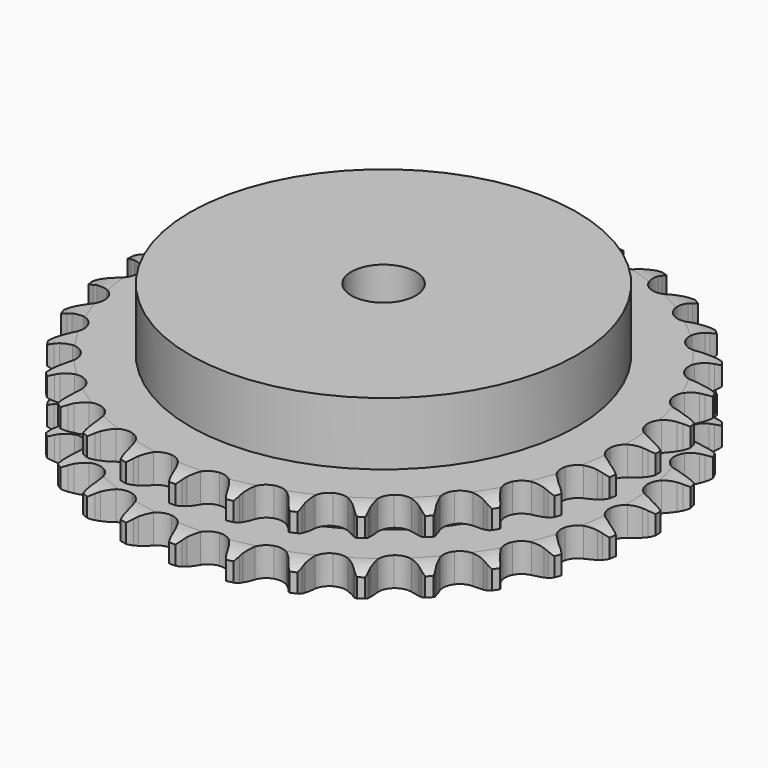
from build123d import *

# Parameters (mm, degrees)
PAD_DEPTH         = 25.5
SKETCH001_R       = 60
PAD001_DEPTH      = 45
SKETCH002_R       = 10
POCKET_DEPTH      = 0.001
POCKET_DEPTH_BACK = 45.001


with BuildPart() as part:
    # Sprocket → Pad (new body)
    with BuildSketch(Plane.XY):
        with BuildLine():
            ThreePointArc((-8.441553, 83.012563), (-7.253766, 81.595871), (-6.410038, 79.950886))
            Line((-6.410038, 79.950886), (-5.914495, 78.642367))
            ThreePointArc((-5.914495, 78.642367), (-5.128769, 76.941144), (-4.111265, 75.367546))
            ThreePointArc((-4.111265, 75.367546), (-2.29761, 73.856552), (0, 73.314854))
            ThreePointArc((0, 73.314854), (2.29761, 73.856552), (4.111265, 75.367546))
            ThreePointArc((4.111265, 75.367546), (5.128769, 76.941144), (5.914495, 78.642367))
            Line((5.914495, 78.642367), (6.410038, 79.950886))
            ThreePointArc((6.410038, 79.950886), (7.253766, 81.595871), (8.441553, 83.012563))
            ThreePointArc((8.441553, 83.012563), (9.319847, 81.385771), (9.815171, 79.604618))
            Line((9.815171, 79.604618), (10.037167, 78.223133))
            ThreePointArc((10.037167, 78.223133), (10.464356, 76.398568), (11.144269, 74.652359))
            ThreePointArc((11.144269, 74.652359), (12.616637, 72.807209), (14.758172, 71.814094))
            ThreePointArc((14.758172, 71.814094), (17.117792, 71.882198), (19.198482, 72.997176))
            Line((19.198482, 72.997176), (21.624017, 75.841974))
            ThreePointArc((21.624017, 75.841974), (21.982831, 76.44284), (22.372819, 77.023955))
            ThreePointArc((22.372819, 77.023955), (23.530409, 78.465426), (24.97906, 79.614019))
            ThreePointArc((24.97906, 79.614019), (25.511905, 77.843728), (25.638545, 75.999327))
            Line((25.638545, 75.999327), (25.577906, 74.601434))
            ThreePointArc((25.577906, 74.601434), (25.629069, 72.728225), (25.943554, 70.880896))
            ThreePointArc((25.943554, 70.880896), (27.014357, 68.777131), (28.912142, 67.373258))
            ThreePointArc((28.912142, 67.373258), (31.23717, 66.964979), (33.499712, 67.638294))
            Line((33.499712, 67.638294), (36.44825, 69.936602))
            ThreePointArc((36.44825, 69.936602), (36.920671, 70.452939), (37.419655, 70.943655))
            ThreePointArc((37.419655, 70.943655), (38.843714, 72.122598), (40.493921, 72.956068))
            ThreePointArc((40.493921, 72.956068), (40.659502, 71.114754), (40.412275, 69.282615))
            Line((40.412275, 69.282615), (40.071483, 67.925543))
            ThreePointArc((40.071483, 67.925543), (39.744524, 66.080381), (39.680708, 64.207561))
            ThreePointArc((39.680708, 64.207561), (40.306106, 61.931309), (41.882446, 60.174152))
            ThreePointArc((41.882446, 60.174152), (44.077695, 59.306206), (46.429459, 59.510291))
            Line((46.429459, 59.510291), (49.780286, 61.168017))
            ThreePointArc((49.780286, 61.168017), (50.346975, 61.578687), (50.934525, 61.958913))
            ThreePointArc((50.934525, 61.958913), (52.566754, 62.827062), (54.350956, 63.311286))
            ThreePointArc((54.350956, 63.311286), (54.142494, 61.474333), (53.531521, 59.729465))
            Line((53.531521, 59.729465), (52.924529, 58.468773))
            ThreePointArc((52.924529, 58.468773), (52.232834, 56.727198), (51.793328, 54.905561))
            ThreePointArc((51.793328, 54.905561), (51.947719, 52.550012), (53.138077, 50.511509))
            ThreePointArc((53.138077, 50.511509), (55.113673, 49.21943), (57.458379, 48.945931))
            Line((57.458379, 48.945931), (61.074312, 49.895206))
            ThreePointArc((61.074312, 49.895206), (61.712068, 50.183396), (62.36413, 50.437566))
            ThreePointArc((62.36413, 50.437566), (64.137704, 50.959379), (65.982857, 51.074533))
            ThreePointArc((65.982857, 51.074533), (65.408886, 49.317146), (64.459181, 47.730983))
            Line((64.459181, 47.730983), (63.610838, 46.618284))
            ThreePointArc((63.610838, 46.618284), (62.582726, 45.051596), (61.785524, 43.35572))
            ThreePointArc((61.785524, 43.35572), (61.462586, 41.017311), (62.21823, 38.780919))
            ThreePointArc((62.21823, 38.780919), (63.893291, 37.117605), (66.134946, 36.377718))
            Line((66.134946, 36.377718), (69.867949, 36.579679))
            ThreePointArc((69.867949, 36.579679), (70.550662, 36.733591), (71.24054, 36.851299))
            ThreePointArc((71.24054, 36.851299), (73.082849, 37.005412), (74.913412, 36.746783))
            ThreePointArc((74.913412, 36.746783), (73.997431, 35.140909), (72.747874, 33.77839))
            Line((72.747874, 33.77839), (71.692912, 32.859238))
            ThreePointArc((71.692912, 32.859238), (70.370474, 31.531577), (69.248213, 30.030892))
            ThreePointArc((69.248213, 30.030892), (68.461167, 27.805357), (68.75116, 25.462634))
            ThreePointArc((68.75116, 25.462634), (70.057111, 23.49618), (72.10394, 22.320197))
            Line((72.10394, 22.320197), (75.801183, 21.766577))
            ThreePointArc((75.801183, 21.766577), (76.500903, 21.779908), (77.200354, 21.756336))
            ThreePointArc((77.200354, 21.756336), (79.035973, 21.53644), (80.777003, 20.914615))
            ThreePointArc((80.777003, 20.914615), (79.556512, 19.525999), (78.05826, 18.442905))
            Line((78.05826, 18.442905), (76.83987, 17.75493))
            ThreePointArc((76.83987, 17.75493), (75.277246, 16.720652), (73.875872, 15.476595))
            ThreePointArc((73.875872, 15.476595), (72.65694, 13.455048), (72.469411, 11.101905))
            ThreePointArc((72.469411, 11.101905), (73.352784, 8.912819), (75.120991, 7.348885))
            Line((75.120991, 7.348885), (78.631108, 6.062348))
            ThreePointArc((78.631108, 6.062348), (79.319189, 5.934554), (79.999576, 5.770665))
            ThreePointArc((79.999576, 5.770665), (81.753356, 5.185764), (83.333575, 4.226201))
            ThreePointArc((83.333575, 4.226201), (81.858541, 3.111693), (80.172933, 2.352365))
            Line((80.172933, 2.352365), (78.840995, 1.923734))
            ThreePointArc((78.840995, 1.923734), (77.102159, 1.225181), (75.479044, 0.288684))
            ThreePointArc((75.479044, 0.288684), (73.878129, -1.446112), (73.220755, -3.713336))
            ThreePointArc((73.220755, -3.713336), (73.645385, -6.035434), (75.06258, -7.923291))
            Line((75.06258, -7.923291), (78.241866, -9.890075))
            ThreePointArc((78.241866, -9.890075), (78.890137, -10.153762), (79.523606, -10.451257))
            ThreePointArc((79.523606, -10.451257), (81.123746, -11.377219), (82.478459, -12.635235))
            ThreePointArc((82.478459, -12.635235), (80.809271, -13.430007), (79.005316, -13.834481))
            Line((79.005316, -13.834481), (77.61436, -13.986221))
            ThreePointArc((77.61436, -13.986221), (75.7705, -14.320449), (73.992095, -14.911045))
            ThreePointArc((73.992095, -14.911045), (72.07474, -16.288068), (70.974432, -18.376554))
            ThreePointArc((70.974432, -18.376554), (70.922936, -20.736595), (71.931098, -22.871087))
            Line((71.931098, -22.871087), (74.649393, -25.437596))
            ThreePointArc((74.649393, -25.437596), (75.231314, -25.826382), (75.791931, -26.245303))
            ThreePointArc((75.791931, -26.245303), (77.172921, -27.474417), (78.246666, -28.979383))
            ThreePointArc((78.246666, -28.979383), (76.45166, -29.42188), (74.603212, -29.454941))
            Line((74.603212, -29.454941), (73.210183, -29.323578))
            ThreePointArc((73.210183, -29.323578), (71.336788, -29.279798), (69.475902, -29.500314))
            ThreePointArc((69.475902, -29.500314), (67.320601, -30.463189), (65.822409, -32.287433))
            ThreePointArc((65.822409, -32.287433), (65.296894, -34.588798), (65.854748, -36.882538))
            Line((65.854748, -36.882538), (68.000765, -39.943699))
            ThreePointArc((68.000765, -39.943699), (68.492512, -40.441667), (68.957325, -40.964864))
            ThreePointArc((68.957325, -40.964864), (70.062627, -42.446808), (70.811446, -44.137111))
            ThreePointArc((70.811446, -44.137111), (68.964109, -44.209219), (67.146843, -43.869513))
            Line((67.146843, -43.869513), (65.808774, -43.460424))
            ThreePointArc((65.808774, -43.460424), (63.98254, -43.040429), (62.115356, -42.881837))
            ThreePointArc((62.115356, -42.881837), (59.81035, -43.391143), (57.975608, -44.876461))
            ThreePointArc((57.975608, -44.876461), (56.997589, -47.024931), (57.082297, -49.384014))
            Line((57.082297, -49.384014), (58.568178, -52.814503))
            ThreePointArc((58.568178, -52.814503), (58.949619, -53.401265), (59.299598, -54.007318))
            ThreePointArc((59.299598, -54.007318), (60.083962, -55.681423), (60.477196, -57.487861))
            ThreePointArc((60.477196, -57.487861), (58.653159, -57.186626), (56.941475, -56.488062))
            Line((56.941475, -56.488062), (55.713145, -55.817995))
            ThreePointArc((55.713145, -55.817995), (54.008839, -55.038979), (52.211801, -54.507773))
            ThreePointArc((52.211801, -54.507773), (49.851455, -54.542659), (47.755278, -55.628241))
            ThreePointArc((47.755278, -55.628241), (46.364795, -57.535858), (45.97289, -59.863702))
            Line((45.97289, -59.863702), (46.737803, -63.523074))
            ThreePointArc((46.737803, -63.523074), (46.993321, -64.174609), (47.214139, -64.838706))
            ThreePointArc((47.214139, -64.838706), (47.645451, -66.636434), (47.667003, -68.485052))
            ThreePointArc((47.667003, -68.485052), (45.940942, -67.822807), (44.404917, -66.793982))
            Line((44.404917, -66.793982), (43.336614, -65.890371))
            ThreePointArc((43.336614, -65.890371), (41.82401, -64.784228), (40.170688, -63.902154))
            ThreePointArc((40.170688, -63.902154), (37.851637, -63.461192), (35.579842, -64.102594))
            ThreePointArc((35.579842, -64.102594), (33.833822, -65.691261), (32.981347, -67.892563))
            Line((32.981347, -67.892563), (32.993976, -71.631004))
            ThreePointArc((32.993976, -71.631004), (33.113111, -72.320637), (33.195727, -73.015591))
            ThreePointArc((33.195727, -73.015591), (33.256331, -74.863341), (32.905317, -76.678456))
            ThreePointArc((32.905317, -76.678456), (31.347898, -75.682314), (30.050416, -74.36535))
            Line((30.050416, -74.36535), (29.185877, -73.265188))
            ThreePointArc((29.185877, -73.265188), (27.926901, -71.877202), (26.484983, -70.680373))
            ThreePointArc((26.484983, -70.680373), (24.302168, -69.781616), (21.947764, -69.95258))
            ThreePointArc((21.947764, -69.95258), (19.917688, -71.157255), (18.639545, -73.141895))
            Line((18.639545, -73.141895), (17.899372, -76.806352))
            ThreePointArc((17.899372, -76.806352), (17.877247, -77.505849), (17.818278, -78.203208))
            ThreePointArc((17.818278, -78.203208), (17.505692, -80.025334), (16.796483, -81.732635))
            ThreePointArc((16.796483, -81.732635), (15.471467, -80.443378), (14.465647, -78.892191))
            Line((14.465647, -78.892191), (13.840266, -77.640519))
            ThreePointArc((13.840266, -77.640519), (12.886461, -76.027515), (11.714979, -74.564929))
            ThreePointArc((11.714979, -74.564929), (9.757765, -73.245172), (7.417141, -72.938699))
            ThreePointArc((7.417141, -72.938699), (5.186122, -73.710063), (3.534637, -75.396789))
            Line((3.534637, -75.396789), (2.071966, -78.837238))
            ThreePointArc((2.071966, -78.837238), (1.909486, -79.517963), (1.711347, -80.189177))
            ThreePointArc((1.711347, -80.189177), (1.038368, -81.91108), (0, -83.44067))
            ThreePointArc((0, -83.44067), (-1.038368, -81.91108), (-1.711347, -80.189177))
            Line((-1.711347, -80.189177), (-2.071966, -78.837238))
            ThreePointArc((-2.071966, -78.837238), (-2.681552, -77.065253), (-3.534637, -75.396789))
            ThreePointArc((-3.534637, -75.396789), (-5.186122, -73.710063), (-7.417141, -72.938699))
            ThreePointArc((-7.417141, -72.938699), (-9.757765, -73.245172), (-11.714979, -74.564929))
            Line((-11.714979, -74.564929), (-13.840266, -77.640519))
            ThreePointArc((-13.840266, -77.640519), (-14.13645, -78.274602), (-14.465647, -78.892191))
            ThreePointArc((-14.465647, -78.892191), (-15.471467, -80.443378), (-16.796483, -81.732635))
            ThreePointArc((-16.796483, -81.732635), (-17.505692, -80.025334), (-17.818278, -78.203208))
            Line((-17.818278, -78.203208), (-17.899372, -76.806352))
            ThreePointArc((-17.899372, -76.806352), (-18.139782, -74.94793), (-18.639545, -73.141895))
            ThreePointArc((-18.639545, -73.141895), (-19.917688, -71.157255), (-21.947764, -69.95258))
            ThreePointArc((-21.947764, -69.95258), (-24.302168, -69.781616), (-26.484983, -70.680373))
            Line((-26.484983, -70.680373), (-29.185877, -73.265188))
            ThreePointArc((-29.185877, -73.265188), (-29.603638, -73.82667), (-30.050416, -74.36535))
            ThreePointArc((-30.050416, -74.36535), (-31.347898, -75.682314), (-32.905317, -76.678456))
            ThreePointArc((-32.905317, -76.678456), (-33.256331, -74.863341), (-33.195727, -73.015591))
            Line((-33.195727, -73.015591), (-32.993976, -71.631004))
            ThreePointArc((-32.993976, -71.631004), (-32.855367, -69.76223), (-32.981347, -67.892563))
            ThreePointArc((-32.981347, -67.892563), (-33.833822, -65.691261), (-35.579842, -64.102594))
            ThreePointArc((-35.579842, -64.102594), (-37.851637, -63.461192), (-40.170688, -63.902154))
            Line((-40.170688, -63.902154), (-43.336614, -65.890371))
            ThreePointArc((-43.336614, -65.890371), (-43.858849, -66.356266), (-44.404917, -66.793982))
            ThreePointArc((-44.404917, -66.793982), (-45.940942, -67.822807), (-47.667003, -68.485052))
            ThreePointArc((-47.667003, -68.485052), (-47.645451, -66.636434), (-47.214139, -64.838706))
            Line((-47.214139, -64.838706), (-46.737803, -63.523074))
            ThreePointArc((-46.737803, -63.523074), (-46.225849, -61.720457), (-45.97289, -59.863702))
            ThreePointArc((-45.97289, -59.863702), (-46.364795, -57.535858), (-47.755278, -55.628241))
            ThreePointArc((-47.755278, -55.628241), (-49.851455, -54.542659), (-52.211801, -54.507773))
            Line((-52.211801, -54.507773), (-55.713145, -55.817995))
            ThreePointArc((-55.713145, -55.817995), (-56.318474, -56.169228), (-56.941475, -56.488062))
            ThreePointArc((-56.941475, -56.488062), (-58.653159, -57.186626), (-60.477196, -57.487861))
            ThreePointArc((-60.477196, -57.487861), (-60.083962, -55.681423), (-59.299598, -54.007318))
            Line((-59.299598, -54.007318), (-58.568178, -52.814503))
            ThreePointArc((-58.568178, -52.814503), (-57.70384, -51.15184), (-57.082297, -49.384014))
            ThreePointArc((-57.082297, -49.384014), (-56.997589, -47.024931), (-57.975608, -44.876461))
            ThreePointArc((-57.975608, -44.876461), (-59.81035, -43.391143), (-62.115356, -42.881837))
            Line((-62.115356, -42.881837), (-65.808774, -43.460424))
            ThreePointArc((-65.808774, -43.460424), (-66.472414, -43.682615), (-67.146843, -43.869513))
            ThreePointArc((-67.146843, -43.869513), (-68.964109, -44.209219), (-70.811446, -44.137111))
            ThreePointArc((-70.811446, -44.137111), (-70.062627, -42.446808), (-68.957325, -40.964864))
            Line((-68.957325, -40.964864), (-68.000765, -39.943699))
            ThreePointArc((-68.000765, -39.943699), (-66.819429, -38.489062), (-65.854748, -36.882538))
            ThreePointArc((-65.854748, -36.882538), (-65.296894, -34.588798), (-65.822409, -32.287433))
            ThreePointArc((-65.822409, -32.287433), (-67.320601, -30.463189), (-69.475902, -29.500314))
            Line((-69.475902, -29.500314), (-73.210183, -29.323578))
            ThreePointArc((-73.210183, -29.323578), (-73.904965, -29.407631), (-74.603212, -29.454941))
            ThreePointArc((-74.603212, -29.454941), (-76.45166, -29.42188), (-78.246666, -28.979383))
            ThreePointArc((-78.246666, -28.979383), (-77.172921, -27.474417), (-75.791931, -26.245303))
            Line((-75.791931, -26.245303), (-74.649393, -25.437596))
            ThreePointArc((-74.649393, -25.437596), (-73.199422, -24.250536), (-71.931098, -22.871087))
            ThreePointArc((-71.931098, -22.871087), (-70.922936, -20.736595), (-70.974432, -18.376554))
            ThreePointArc((-70.974432, -18.376554), (-72.07474, -16.288068), (-73.992095, -14.911045))
            Line((-73.992095, -14.911045), (-77.61436, -13.986221))
            ThreePointArc((-77.61436, -13.986221), (-78.311839, -13.928695), (-79.005316, -13.834481))
            ThreePointArc((-79.005316, -13.834481), (-80.809271, -13.430007), (-82.478459, -12.635235))
            ThreePointArc((-82.478459, -12.635235), (-81.123746, -11.377219), (-79.523606, -10.451257))
            Line((-79.523606, -10.451257), (-78.241866, -9.890075))
            ThreePointArc((-78.241866, -9.890075), (-76.582623, -9.019191), (-75.06258, -7.923291))
            ThreePointArc((-75.06258, -7.923291), (-73.645385, -6.035434), (-73.220755, -3.713336))
            ThreePointArc((-73.220755, -3.713336), (-73.878129, -1.446112), (-75.479044, 0.288684))
            Line((-75.479044, 0.288684), (-78.840995, 1.923734))
            ThreePointArc((-78.840995, 1.923734), (-79.512616, 2.120484), (-80.172933, 2.352365))
            ThreePointArc((-80.172933, 2.352365), (-81.858541, 3.111693), (-83.333575, 4.226201))
            ThreePointArc((-83.333575, 4.226201), (-81.753356, 5.185764), (-79.999576, 5.770665))
            Line((-79.999576, 5.770665), (-78.631108, 6.062348))
            ThreePointArc((-78.631108, 6.062348), (-76.830522, 6.581401), (-75.120991, 7.348885))
            ThreePointArc((-75.120991, 7.348885), (-73.352784, 8.912819), (-72.469411, 11.101905))
            ThreePointArc((-72.469411, 11.101905), (-72.65694, 13.455048), (-73.875872, 15.476595))
            Line((-73.875872, 15.476595), (-76.83987, 17.75493))
            ThreePointArc((-76.83987, 17.75493), (-77.458138, 18.082849), (-78.05826, 18.442905))
            ThreePointArc((-78.05826, 18.442905), (-79.556512, 19.525999), (-80.777003, 20.914615))
            ThreePointArc((-80.777003, 20.914615), (-79.035973, 21.53644), (-77.200354, 21.756336))
            Line((-77.200354, 21.756336), (-75.801183, 21.766577))
            ThreePointArc((-75.801183, 21.766577), (-73.93297, 21.91255), (-72.10394, 22.320197))
            ThreePointArc((-72.10394, 22.320197), (-70.057111, 23.49618), (-68.75116, 25.462634))
            ThreePointArc((-68.75116, 25.462634), (-68.461167, 27.805357), (-69.248213, 30.030892))
            Line((-69.248213, 30.030892), (-71.692912, 32.859238))
            ThreePointArc((-71.692912, 32.859238), (-72.232515, 33.304901), (-72.747874, 33.77839))
            ThreePointArc((-72.747874, 33.77839), (-73.997431, 35.140909), (-74.913412, 36.746783))
            ThreePointArc((-74.913412, 36.746783), (-73.082849, 37.005412), (-71.24054, 36.851299))
            Line((-71.24054, 36.851299), (-69.867949, 36.579679))
            ThreePointArc((-69.867949, 36.579679), (-68.008594, 36.346596), (-66.134946, 36.377718))
            ThreePointArc((-66.134946, 36.377718), (-63.893291, 37.117605), (-62.21823, 38.780919))
            ThreePointArc((-62.21823, 38.780919), (-61.462586, 41.017311), (-61.785524, 43.35572))
            Line((-61.785524, 43.35572), (-63.610838, 46.618284))
            ThreePointArc((-63.610838, 46.618284), (-64.049684, 47.163446), (-64.459181, 47.730983))
            ThreePointArc((-64.459181, 47.730983), (-65.408886, 49.317146), (-65.982857, 51.074533))
            ThreePointArc((-65.982857, 51.074533), (-64.137704, 50.959379), (-62.36413, 50.437566))
            Line((-62.36413, 50.437566), (-61.074312, 49.895206))
            ThreePointArc((-61.074312, 49.895206), (-59.299938, 49.292609), (-57.458379, 48.945931))
            ThreePointArc((-57.458379, 48.945931), (-55.113673, 49.21943), (-53.138077, 50.511509))
            ThreePointArc((-53.138077, 50.511509), (-51.947719, 52.550012), (-51.793328, 54.905561))
            Line((-51.793328, 54.905561), (-52.924529, 58.468773))
            ThreePointArc((-52.924529, 58.468773), (-53.244651, 59.091114), (-53.531521, 59.729465))
            ThreePointArc((-53.531521, 59.729465), (-54.142494, 61.474333), (-54.350956, 63.311286))
            ThreePointArc((-54.350956, 63.311286), (-52.566754, 62.827062), (-50.934525, 61.958913))
            Line((-50.934525, 61.958913), (-49.780286, 61.168017))
            ThreePointArc((-49.780286, 61.168017), (-48.163536, 60.220576), (-46.429459, 59.510291))
            ThreePointArc((-46.429459, 59.510291), (-44.077695, 59.306206), (-41.882446, 60.174152))
            ThreePointArc((-41.882446, 60.174152), (-40.306106, 61.931309), (-39.680708, 64.207561))
            Line((-39.680708, 64.207561), (-40.071483, 67.925543))
            ThreePointArc((-40.071483, 67.925543), (-40.259776, 68.599585), (-40.412275, 69.282615))
            ThreePointArc((-40.412275, 69.282615), (-40.659502, 71.114754), (-40.493921, 72.956068))
            ThreePointArc((-40.493921, 72.956068), (-38.843714, 72.122598), (-37.419655, 70.943655))
            Line((-37.419655, 70.943655), (-36.44825, 69.936602))
            ThreePointArc((-36.44825, 69.936602), (-35.055313, 68.683106), (-33.499712, 67.638294))
            ThreePointArc((-33.499712, 67.638294), (-31.23717, 66.964979), (-28.912142, 67.373258))
            ThreePointArc((-28.912142, 67.373258), (-27.014357, 68.777131), (-25.943554, 70.880896))
            Line((-25.943554, 70.880896), (-25.577906, 74.601434))
            ThreePointArc((-25.577906, 74.601434), (-25.626661, 75.299581), (-25.638545, 75.999327))
            ThreePointArc((-25.638545, 75.999327), (-25.511905, 77.843728), (-24.97906, 79.614019))
            ThreePointArc((-24.97906, 79.614019), (-23.530409, 78.465426), (-22.372819, 77.023955))
            Line((-22.372819, 77.023955), (-21.624017, 75.841974))
            ThreePointArc((-21.624017, 75.841974), (-20.511921, 74.333741), (-19.198482, 72.997176))
            ThreePointArc((-19.198482, 72.997176), (-17.117792, 71.882198), (-14.758172, 71.814094))
            ThreePointArc((-14.758172, 71.814094), (-12.616637, 72.807209), (-11.144269, 74.652359))
            Line((-11.144269, 74.652359), (-10.037167, 78.223133))
            ThreePointArc((-10.037167, 78.223133), (-9.944388, 78.916803), (-9.815171, 79.604618))
            ThreePointArc((-9.815171, 79.604618), (-9.319847, 81.385771), (-8.441553, 83.012563))
        make_face()
    extrude(amount=PAD_DEPTH)

    # Sketch → Groove (revolve, cut)
    with BuildSketch(Plane.XZ):
        with BuildLine():
            ThreePointArc((74.975762, 0), (78.55347, 0.405129), (81.95, 1.6))
            Line((81.95, 1.6), (81.95, 7.4))
            ThreePointArc((81.95, 7.4), (78.55347, 8.594871), (74.975762, 9))
            Line((60, 9), (74.975762, 9))
            Line((60, 16.5), (60, 9))
            Line((74.975762, 16.5), (60, 16.5))
            ThreePointArc((74.975762, 16.5), (78.55347, 16.905129), (81.95, 18.1))
            Line((81.95, 18.1), (81.95, 23.9))
            ThreePointArc((81.95, 23.9), (78.55347, 25.094871), (74.975762, 25.5))
            Line((74.975762, 25.5), (84.975762, 25.5))
            Line((84.975762, 25.5), (84.975762, 0))
            Line((74.975762, 0), (84.975762, 0))
        make_face()
    revolve(axis=Axis((0, 0, 0), (0, 0, 1)), mode=Mode.SUBTRACT)

    # Sketch001 → Pad001 (join)
    with BuildSketch(Plane.XY):
        Circle(SKETCH001_R)
    extrude(amount=PAD001_DEPTH)

    # Sketch002 → Pocket (cut, two sides)
    with BuildSketch(Plane.XY) as pocket_sk:
        Circle(SKETCH002_R)
    extrude(amount=-POCKET_DEPTH, mode=Mode.SUBTRACT)
    extrude(pocket_sk.sketch, amount=POCKET_DEPTH_BACK, mode=Mode.SUBTRACT)


solid = part.part
